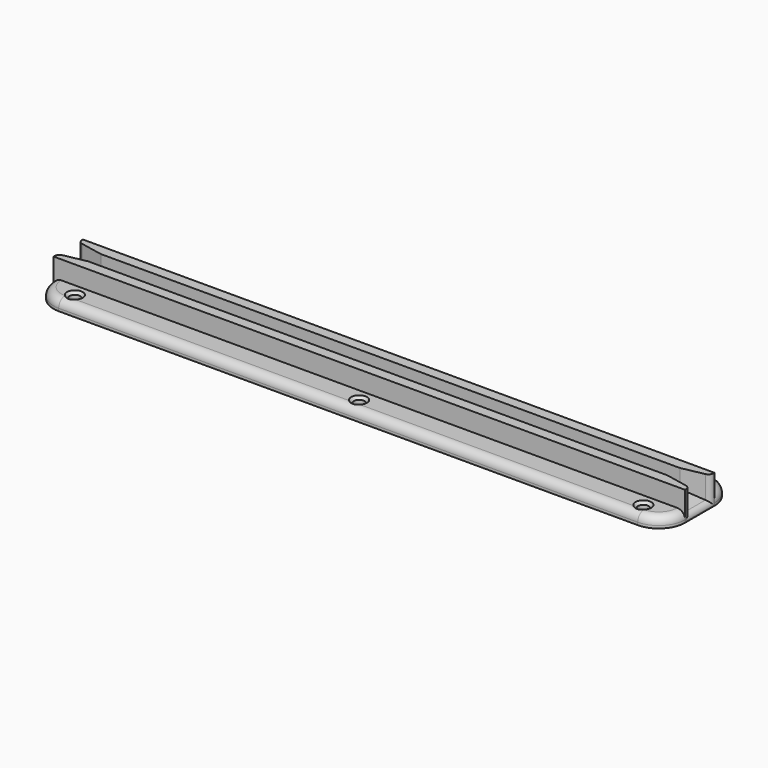
from build123d import *

# Parameters (mm, degrees)
PAD_DEPTH       = 240
FILLET_R        = 10
FILLET001_R     = 3
CHAMFER_1_SIZE2 = 10
CHAMFER_1_SIZE  = 2
CHAMFER_2_SIZE2 = 10
CHAMFER_2_SIZE  = 2
FILLET002_R     = 2
SKETCH001_R     = 2
POCKET_DEPTH    = 4.001
CHAMFER001_SIZE = 1


with BuildPart() as part:
    # Sketch → Pad (new body)
    with BuildSketch(Plane.YZ):
        Polygon((0, 0), (0, 4), (10, 4), (10, 11), (14, 11), (14, 4), (20, 4), (20, 11), (24, 11), (24, 4), (34, 4), (34, 0), align=None)
    extrude(amount=PAD_DEPTH)

    # Fillet
    fillet_edges = [part.edges().sort_by_distance(p)[0] for p in [
        (240, 0, 2),
        (240, 34, 2),
        (0, 0, 2),
        (0, 34, 2),
    ]]
    fillet(fillet_edges, radius=FILLET_R)

    # Fillet001
    fillet001_edges = [part.edges().sort_by_distance(p)[0] for p in [
        (237.071068, 2.928932, 4),
        (120, 0, 4),
        (2.928932, 2.928932, 4),
        (2.928932, 31.071068, 4),
        (120, 34, 4),
        (237.071068, 31.071068, 4),
    ]]
    fillet(fillet001_edges, radius=FILLET001_R)

    # Chamfer 1
    chamfer_1_edges = [part.edges().sort_by_distance(p)[0] for p in [
        (240, 17, 4),
        (240, 20, 7.5),
        (240, 14, 7.5),
    ]]
    chamfer_1_side = part.faces().sort_by_distance((240, 23.821955, 0.5))[0]
    chamfer(chamfer_1_edges, length=CHAMFER_1_SIZE, length2=CHAMFER_1_SIZE2, reference=chamfer_1_side)

    # Chamfer 2
    chamfer_2_edges = [part.edges().sort_by_distance(p)[0] for p in [
        (0, 17, 4),
        (0, 20, 7.5),
        (0, 14, 7.5),
    ]]
    chamfer_2_side = part.faces().sort_by_distance((0, 23.821955, 0.5))[0]
    chamfer(chamfer_2_edges, length=CHAMFER_2_SIZE, length2=CHAMFER_2_SIZE2, reference=chamfer_2_side)

    # Fillet002
    fillet002_edges = [part.edges().sort_by_distance(p)[0] for p in [
        (240, 12, 6.5),
        (240, 17, 2),
        (240, 22, 6.5),
        (0, 22, 6.5),
        (0, 17, 2),
        (0, 12, 6.5),
    ]]
    fillet(fillet002_edges, radius=FILLET002_R)

    # Sketch001 (on Face29 of Fillet002) → Pocket (cut, through all)
    with BuildSketch(Plane(origin=(0, 0, 4), x_dir=(0, -1, 0), z_dir=(0, 0, 1))):
        with Locations((-28.819804, 12)):
            Circle(SKETCH001_R)
        with Locations((-5.180196, 12)):
            Circle(SKETCH001_R)
        with Locations((-5.180196, 120)):
            Circle(SKETCH001_R)
        with Locations((-28.819804, 120)):
            Circle(SKETCH001_R)
        with Locations((-28.819804, 228)):
            Circle(SKETCH001_R)
        with Locations((-5.180196, 228)):
            Circle(SKETCH001_R)
    extrude(amount=-POCKET_DEPTH, mode=Mode.SUBTRACT)

    # Chamfer001
    chamfer001_edges = [part.edges().sort_by_distance(p)[0] for p in [
        (12, 30.819804, 4),
        (12, 7.180196, 4),
        (120, 7.180196, 4),
        (120, 30.819804, 4),
        (228, 30.819804, 4),
        (228, 7.180196, 4),
    ]]
    chamfer(chamfer001_edges, length=CHAMFER001_SIZE)


solid = part.part
